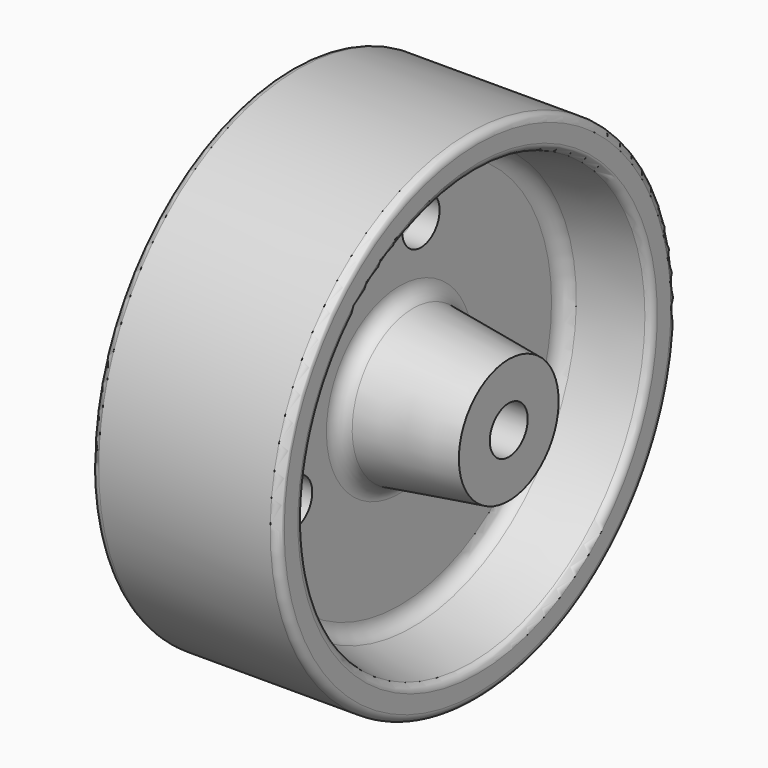
from build123d import *

# Parameters (mm, degrees)
F1_R          = 4.826
F1_R_2        = 4.7625
F3_DEPTH      = 25.4
F3_DEPTH_BACK = 25.4
F4_R          = 1.5875


with BuildPart() as f2:
    # F0 (on Front) → F2 (revolve)
    with BuildSketch(Plane.XZ):
        with BuildLine():
            Line((17.4625, 50.8), (0, 50.8))
            Line((0, 50.8), (-17.4625, 50.8))
            ThreePointArc((-17.4625, 50.8), (-18.5850320151, 50.3350320151), (-19.05, 49.2125))
            Line((-19.05, 49.2125), (-19.05, 45.7514386956))
            ThreePointArc((-19.05, 45.7514386956), (-18.6901806494, 44.7449813079), (-17.7738343645, 44.1947668729))
            Line((-17.7738343645, 44.1947668729), (-5.7273312709, 41.7854662542))
            ThreePointArc((-5.7273312709, 41.7854662542), (-3.8946387013, 40.6850373842), (-3.175, 38.6721226089))
            Line((-3.175, 38.6721226089), (-3.175, 18.6286629004))
            ThreePointArc((-3.175, 18.6286629004), (-3.9514336929, 16.5483973716), (-5.9009871939, 15.485573258))
            Line((-5.9009871939, 15.485573258), (-25.4, 12.7))
            Line((-25.4, 12.7), (-25.4, 0))
            Line((-25.4, 0), (-3.175, 0))
            Line((-3.175, 0), (0, 0))
            Line((0, 0), (3.175, 0))
            Line((3.175, 0), (25.4, 0))
            Line((25.4, 0), (25.4, 12.7))
            Line((25.4, 12.7), (5.9009871939, 15.485573258))
            ThreePointArc((5.9009871939, 15.485573258), (3.9514336929, 16.5483973716), (3.175, 18.6286629004))
            Line((3.175, 18.6286629004), (3.175, 38.6721226089))
            ThreePointArc((3.175, 38.6721226089), (3.8946387013, 40.6850373842), (5.7273312709, 41.7854662542))
            Line((5.7273312709, 41.7854662542), (17.7738343645, 44.1947668729))
            ThreePointArc((17.7738343645, 44.1947668729), (18.6901806494, 44.7449813079), (19.05, 45.7514386956))
            Line((19.05, 45.7514386956), (19.05, 49.2125))
            ThreePointArc((19.05, 49.2125), (18.5850320151, 50.3350320151), (17.4625, 50.8))
        make_face()
    revolve(axis=Axis((-14.2875, 0, 0), (-1, 0, 0)))

    # F1 (on Right) → F3 (cut, two sides)
    with BuildSketch(Plane.YZ) as f3_sk:
        Circle(F1_R)
        with Locations((5.4145697075, 28.0573174035)):
            Circle(F1_R_2)
        with Locations((-27.0056344873, -9.3395037845)):
            Circle(F1_R_2)
        with Locations((21.5910647797, -18.717813619)):
            Circle(F1_R_2)
    extrude(amount=-F3_DEPTH, mode=Mode.SUBTRACT)
    extrude(f3_sk.sketch, amount=F3_DEPTH_BACK, mode=Mode.SUBTRACT)

    # F4
    f4_edges = [f2.edges().sort_by_distance(p)[0] for p in [
        (-3.175, 0.65207, 28.057317),
        (-3.175, -31.768134, -9.339504),
        (-3.175, 16.828565, -18.717814),
    ]]
    fillet(f4_edges, radius=F4_R)


solid = f2.part
